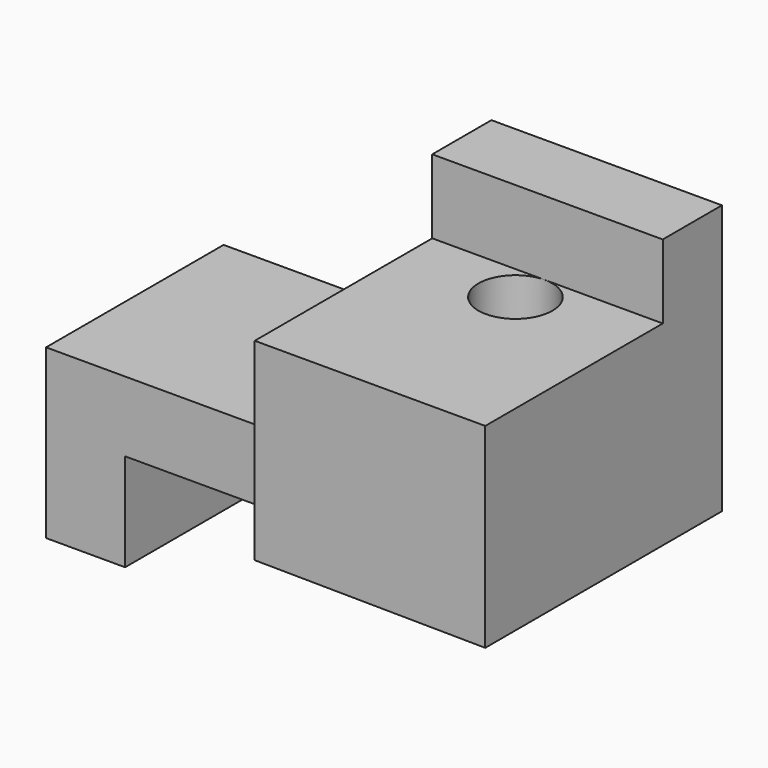
from build123d import *

# Parameters (mm, degrees)
F1_DEPTH = 19.05
F2_DEPTH = 25.4
F3_W     = 19.790456
F3_H     = 6.35
F4_DEPTH = 6.35
F5_R     = 3.175
F6_DEPTH = 19.05


with BuildPart() as f1:
    # F0 (on Front) → F1 (new body)
    with BuildSketch(Plane.XZ):
        Polygon((0, 14.418764), (0, 0), (6.7853, 0), (6.7853, 8.387386), (22.99463, 8.387386), (22.99463, 14.418764), align=None)
    extrude(amount=F1_DEPTH)

    # F0 (on Front) → F2 (join)
    with BuildSketch(Plane.XZ):
        Polygon((22.99463, 24.973674), (22.99463, 14.418764), (22.99463, 8.387386), (42.785086, 8.198905), (42.785086, 24.973674), align=None)
    extrude(amount=F2_DEPTH)

    # F3 (on face) → F4 (join)
    with BuildSketch(Plane.XY.offset(24.973674)):
        with Locations((32.889858, -3.175)):
            Rectangle(F3_W, F3_H)
    extrude(amount=F4_DEPTH)

    # F5 (on face) → F6 (cut, symmetric)
    with BuildSketch(Plane(origin=(0.081958, 0, 8.605602), x_dir=(0.999955, 0, -0.009523), z_dir=(-0.009523, 0, -0.999955))):
        with Locations((16.563711, 9.525)):
            Circle(F5_R)
        with Locations((32.438711, 9.525)):
            Circle(F5_R)
    extrude(amount=F6_DEPTH, both=True, mode=Mode.SUBTRACT)


solid = f1.part
